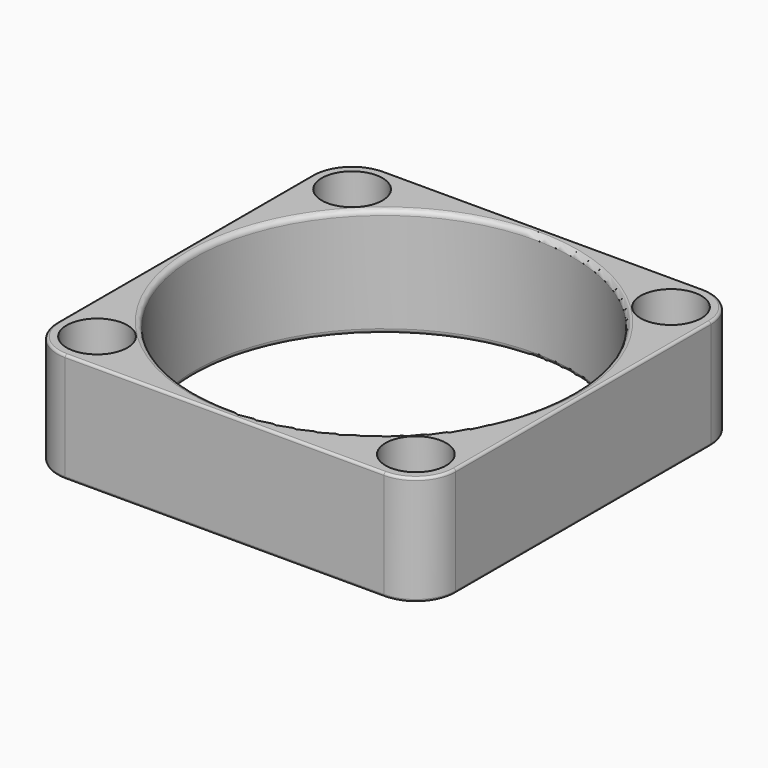
from build123d import *

# Parameters (mm, degrees)
SKETCH038_W         = 40
SKETCH038_H         = 40
PAD011_DEPTH        = 11
SKETCH039_R         = 19
POCKET010_DEPTH     = 11.001
HOLE002_D           = 3.9
HOLE002_DEPTH       = 25
HOLE002_CBORE_D     = 6.1
HOLE002_CBORE_DEPTH = 3.9
FILLET012_R         = 4
FILLET014_R         = 0.5
FILLET015_R         = 0.25


with BuildPart() as part:
    # Sketch038 → Pad011 (new body)
    with BuildSketch(Plane.XY):
        Rectangle(SKETCH038_W, SKETCH038_H)
    extrude(amount=PAD011_DEPTH)

    # Sketch039 (on Face6 of Pad011) → Pocket010 (cut, through all)
    with BuildSketch(Plane.XY.offset(11)):
        Circle(SKETCH039_R)
    extrude(amount=-POCKET010_DEPTH, mode=Mode.SUBTRACT)

    # Hole002
    with Locations(Plane.XY.offset(11)):
        with Locations((16, 16), (16, -16), (-16, 16), (-16, -16)):
            CounterBoreHole(HOLE002_D / 2, HOLE002_CBORE_D / 2, HOLE002_CBORE_DEPTH, depth=HOLE002_DEPTH)

    # Fillet012
    fillet012_edges = [part.edges().sort_by_distance(p)[0] for p in [
        (20, 20, 5.5),
        (-20, 20, 5.5),
        (-20, -20, 5.5),
        (20, -20, 5.5),
    ]]
    fillet(fillet012_edges, radius=FILLET012_R)

    # Fillet014
    fillet014_edges = [part.edges().sort_by_distance(p)[0] for p in [
        (-19, 0, 11),
        (19, 0, 5.5),
        (-19, 0, 0),
    ]]
    fillet(fillet014_edges, radius=FILLET014_R)

    # Fillet015
    fillet015_edges = [part.edges().sort_by_distance(p)[0] for p in [
        (0, -20, 0),
        (16, -20, 5.5),
        (-16, -20, 5.5),
        (0, -20, 11),
        (20, 0, 0),
        (20, 16, 5.5),
        (20, -16, 5.5),
        (20, 0, 11),
        (0, 20, 0),
        (-16, 20, 5.5),
        (16, 20, 5.5),
        (0, 20, 11),
        (-20, 0, 0),
        (-20, -16, 5.5),
        (-20, 16, 5.5),
        (-20, 0, 11),
    ]]
    fillet(fillet015_edges, radius=FILLET015_R)


solid = part.part
